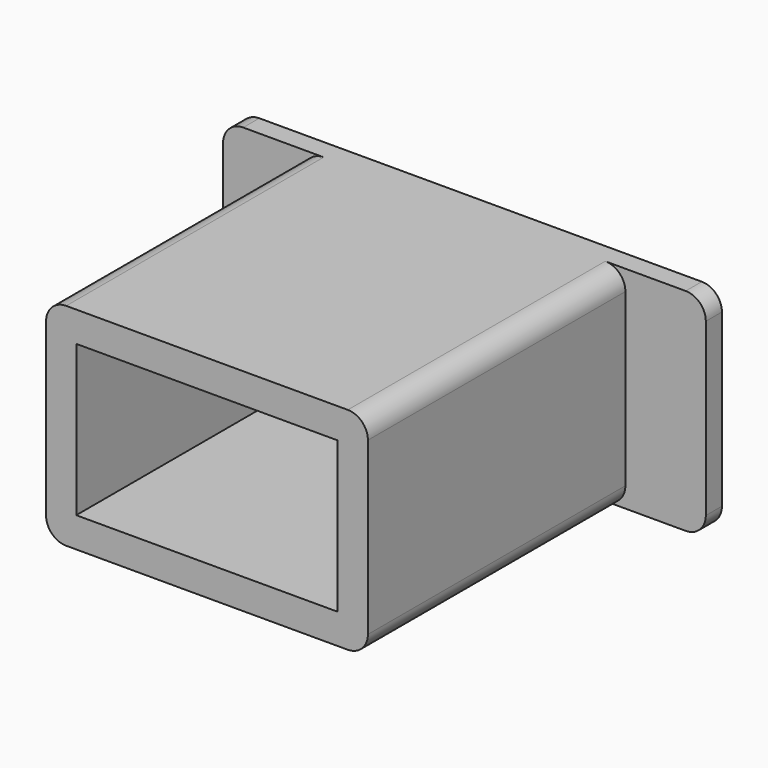
from build123d import *

# Parameters (mm, degrees)
F0_W     = 152.4
F0_H     = 66.675
F1_DEPTH = 6.35
F2_W     = 101.6
F2_H     = 66.675
F3_DEPTH = 101.6
F4_R     = 6.35
F5_W     = 82.55
F5_H     = 47.625
F6_DEPTH = 88.9


with BuildPart() as f1:
    # F0 (on Front) → F1 (new body)
    with BuildSketch(Plane.XZ):
        Rectangle(F0_W, F0_H)
    extrude(amount=F1_DEPTH)

    # F2 (on face) → F3 (join)
    with BuildSketch(Plane.XZ.offset(6.35)):
        Rectangle(F2_W, F2_H)
    extrude(amount=F3_DEPTH)

    # F4
    f4_edges = [f1.edges().sort_by_distance(p)[0] for p in [
        (-50.8, -57.15, 33.3375),
        (-76.2, -3.175, 33.3375),
        (-76.2, -3.175, -33.3375),
        (50.8, -57.15, -33.3375),
        (-50.8, -57.15, -33.3375),
        (50.8, -57.15, 33.3375),
        (76.2, -3.175, 33.3375),
        (76.2, -3.175, -33.3375),
    ]]
    fillet(f4_edges, radius=F4_R)

    # F5 (on face) → F6 (cut)
    with BuildSketch(Plane.XZ.offset(107.95)):
        Rectangle(F5_W, F5_H)
    extrude(amount=-F6_DEPTH, mode=Mode.SUBTRACT)


solid = f1.part
